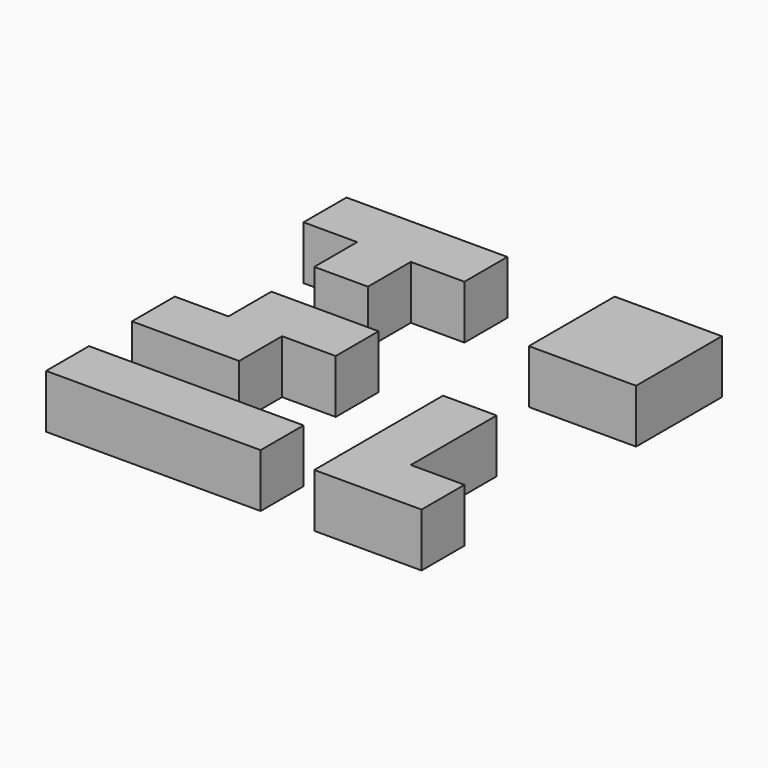
from build123d import *

# Parameters (mm, degrees)
BOX_W        = 10
BOX_H        = 10
BOX_DEPTH    = 10
BOX001_W     = 10
BOX001_H     = 10
BOX001_DEPTH = 10
BOX002_W     = 10
BOX002_H     = 10
BOX002_DEPTH = 10
BOX003_W     = 10
BOX003_H     = 10
BOX003_DEPTH = 10
BOX004_W     = 10
BOX004_H     = 10
BOX004_DEPTH = 10
BOX005_W     = 10
BOX005_H     = 10
BOX005_DEPTH = 10
BOX006_W     = 10
BOX006_H     = 10
BOX006_DEPTH = 10
BOX007_W     = 10
BOX007_H     = 10
BOX007_DEPTH = 10
BOX009_W     = 10
BOX009_H     = 10
BOX009_DEPTH = 10
BOX010_W     = 10
BOX010_H     = 10
BOX010_DEPTH = 10
BOX011_W     = 10
BOX011_H     = 10
BOX011_DEPTH = 10
BOX008_W     = 10
BOX008_H     = 10
BOX008_DEPTH = 10
BOX013_W     = 10
BOX013_H     = 10
BOX013_DEPTH = 10
BOX014_W     = 10
BOX014_H     = 10
BOX014_DEPTH = 10
BOX015_W     = 10
BOX015_H     = 10
BOX015_DEPTH = 10
BOX012_W     = 10
BOX012_H     = 10
BOX012_DEPTH = 10
BOX017_W     = 10
BOX017_H     = 10
BOX017_DEPTH = 10
BOX018_W     = 10
BOX018_H     = 10
BOX018_DEPTH = 10
BOX019_W     = 10
BOX019_H     = 10
BOX019_DEPTH = 10
BOX016_W     = 10
BOX016_H     = 10
BOX016_DEPTH = 10


with BuildPart() as cube:
    # Box → Box (new body)
    with BuildSketch(Plane.XY):
        with Locations((5, 5)):
            Rectangle(BOX_W, BOX_H)
    extrude(amount=BOX_DEPTH)


with BuildPart() as cube001:
    # Box001 → Box001 (new body)
    with BuildSketch(Plane(origin=(10, 0, 0), x_dir=(1, 0, 0), z_dir=(0, 0, 1))):
        with Locations((5, 5)):
            Rectangle(BOX001_W, BOX001_H)
    extrude(amount=BOX001_DEPTH)


with BuildPart() as cube002:
    # Box002 → Box002 (new body)
    with BuildSketch(Plane(origin=(20, 0, 0), x_dir=(1, 0, 0), z_dir=(0, 0, 1))):
        with Locations((5, 5)):
            Rectangle(BOX002_W, BOX002_H)
    extrude(amount=BOX002_DEPTH)


with BuildPart() as obj1:
    # Box003 → Box003 (new body)
    with BuildSketch(Plane(origin=(30, 0, 0), x_dir=(1, 0, 0), z_dir=(0, 0, 1))):
        with Locations((5, 5)):
            Rectangle(BOX003_W, BOX003_H)
    extrude(amount=BOX003_DEPTH)

    # Fusion: union Cube, Cube001, Cube002
    add(cube.part)
    add(cube001.part)
    add(cube002.part)


with BuildPart() as cube004:
    # Box004 → Box004 (new body)
    with BuildSketch(Plane(origin=(50, 0, 0), x_dir=(1, 0, 0), z_dir=(0, 0, 1))):
        with Locations((5, 5)):
            Rectangle(BOX004_W, BOX004_H)
    extrude(amount=BOX004_DEPTH)


with BuildPart() as cube005:
    # Box005 → Box005 (new body)
    with BuildSketch(Plane(origin=(60, 0, 0), x_dir=(1, 0, 0), z_dir=(0, 0, 1))):
        with Locations((5, 5)):
            Rectangle(BOX005_W, BOX005_H)
    extrude(amount=BOX005_DEPTH)


with BuildPart() as cube006:
    # Box006 → Box006 (new body)
    with BuildSketch(Plane(origin=(50, 10, 0), x_dir=(1, 0, 0), z_dir=(0, 0, 1))):
        with Locations((5, 5)):
            Rectangle(BOX006_W, BOX006_H)
    extrude(amount=BOX006_DEPTH)


with BuildPart() as obj2:
    # Box007 → Box007 (new body)
    with BuildSketch(Plane(origin=(50, 20, 0), x_dir=(1, 0, 0), z_dir=(0, 0, 1))):
        with Locations((5, 5)):
            Rectangle(BOX007_W, BOX007_H)
    extrude(amount=BOX007_DEPTH)

    # Fusion001: union Cube004, Cube005, Cube006
    add(cube004.part)
    add(cube005.part)
    add(cube006.part)


with BuildPart() as cube009:
    # Box009 → Box009 (new body)
    with BuildSketch(Plane(origin=(10, 20, 0), x_dir=(1, 0, 0), z_dir=(0, 0, 1))):
        with Locations((5, 5)):
            Rectangle(BOX009_W, BOX009_H)
    extrude(amount=BOX009_DEPTH)


with BuildPart() as cube010:
    # Box010 → Box010 (new body)
    with BuildSketch(Plane(origin=(10, 30, 0), x_dir=(1, 0, 0), z_dir=(0, 0, 1))):
        with Locations((5, 5)):
            Rectangle(BOX010_W, BOX010_H)
    extrude(amount=BOX010_DEPTH)


with BuildPart() as cube011:
    # Box011 → Box011 (new body)
    with BuildSketch(Plane(origin=(20, 30, 0), x_dir=(1, 0, 0), z_dir=(0, 0, 1))):
        with Locations((5, 5)):
            Rectangle(BOX011_W, BOX011_H)
    extrude(amount=BOX011_DEPTH)


with BuildPart() as obj3:
    # Box008 → Box008 (new body)
    with BuildSketch(Plane(origin=(0, 20, 0), x_dir=(1, 0, 0), z_dir=(0, 0, 1))):
        with Locations((5, 5)):
            Rectangle(BOX008_W, BOX008_H)
    extrude(amount=BOX008_DEPTH)

    # Fusion002: union Cube009, Cube010, Cube011
    add(cube009.part)
    add(cube010.part)
    add(cube011.part)


with BuildPart() as cube013:
    # Box013 → Box013 (new body)
    with BuildSketch(Plane(origin=(0, 60, 0), x_dir=(1, 0, 0), z_dir=(0, 0, 1))):
        with Locations((5, 5)):
            Rectangle(BOX013_W, BOX013_H)
    extrude(amount=BOX013_DEPTH)


with BuildPart() as cube014:
    # Box014 → Box014 (new body)
    with BuildSketch(Plane(origin=(10, 60, 0), x_dir=(1, 0, 0), z_dir=(0, 0, 1))):
        with Locations((5, 5)):
            Rectangle(BOX014_W, BOX014_H)
    extrude(amount=BOX014_DEPTH)


with BuildPart() as cube015:
    # Box015 → Box015 (new body)
    with BuildSketch(Plane(origin=(20, 60, 0), x_dir=(1, 0, 0), z_dir=(0, 0, 1))):
        with Locations((5, 5)):
            Rectangle(BOX015_W, BOX015_H)
    extrude(amount=BOX015_DEPTH)


with BuildPart() as obj4:
    # Box012 → Box012 (new body)
    with BuildSketch(Plane(origin=(10, 50, 0), x_dir=(1, 0, 0), z_dir=(0, 0, 1))):
        with Locations((5, 5)):
            Rectangle(BOX012_W, BOX012_H)
    extrude(amount=BOX012_DEPTH)

    # Fusion003: union Cube013, Cube014, Cube015
    add(cube013.part)
    add(cube014.part)
    add(cube015.part)


with BuildPart() as cube017:
    # Box017 → Box017 (new body)
    with BuildSketch(Plane(origin=(50, 50, 0), x_dir=(1, 0, 0), z_dir=(0, 0, 1))):
        with Locations((5, 5)):
            Rectangle(BOX017_W, BOX017_H)
    extrude(amount=BOX017_DEPTH)


with BuildPart() as cube018:
    # Box018 → Box018 (new body)
    with BuildSketch(Plane(origin=(60, 60, 0), x_dir=(1, 0, 0), z_dir=(0, 0, 1))):
        with Locations((5, 5)):
            Rectangle(BOX018_W, BOX018_H)
    extrude(amount=BOX018_DEPTH)


with BuildPart() as cube019:
    # Box019 → Box019 (new body)
    with BuildSketch(Plane(origin=(60, 50, 0), x_dir=(1, 0, 0), z_dir=(0, 0, 1))):
        with Locations((5, 5)):
            Rectangle(BOX019_W, BOX019_H)
    extrude(amount=BOX019_DEPTH)


with BuildPart() as obj3_cel:
    # Box016 → Box016 (new body)
    with BuildSketch(Plane(origin=(50, 60, 0), x_dir=(1, 0, 0), z_dir=(0, 0, 1))):
        with Locations((5, 5)):
            Rectangle(BOX016_W, BOX016_H)
    extrude(amount=BOX016_DEPTH)

    # Fusion004: union Cube017, Cube018, Cube019
    add(cube017.part)
    add(cube018.part)
    add(cube019.part)


solid = Compound([obj1.part, obj2.part, obj3.part, obj4.part, obj3_cel.part])
